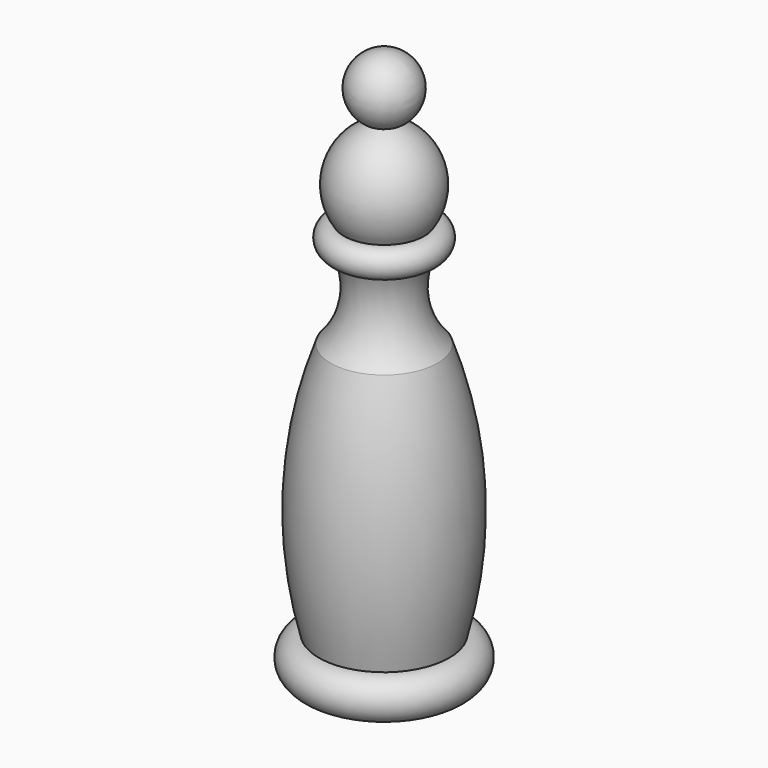
from build123d import *


with BuildPart() as f1:
    # F0 (on Front) → F1 (revolve)
    with BuildSketch(Plane.XZ):
        with BuildLine():
            ThreePointArc((3.906909, 13.960241), (4.591679, 18.883362), (1.101192, 22.422081))
            ThreePointArc((1.101192, 22.422081), (3.125341, 25.959345), (0, 28.575))
            Line((0, 28.575), (0, -25.4))
            Line((0, -25.4), (6.35, -25.4))
            ThreePointArc((6.35, -25.4), (8.350018, -23.399982), (6.35, -21.399964))
            ThreePointArc((6.35, -21.399964), (7.703359, -8.869299), (5.203864, 3.483905))
            ThreePointArc((5.203864, 3.483905), (3.413034, 7.153551), (3.906909, 11.206878))
            ThreePointArc((3.906909, 11.206878), (5.39099, 12.58356), (3.906909, 13.960241))
        make_face()
    revolve(axis=Axis((0, 0, 1.5875), (0, 0, -1)))


solid = f1.part
